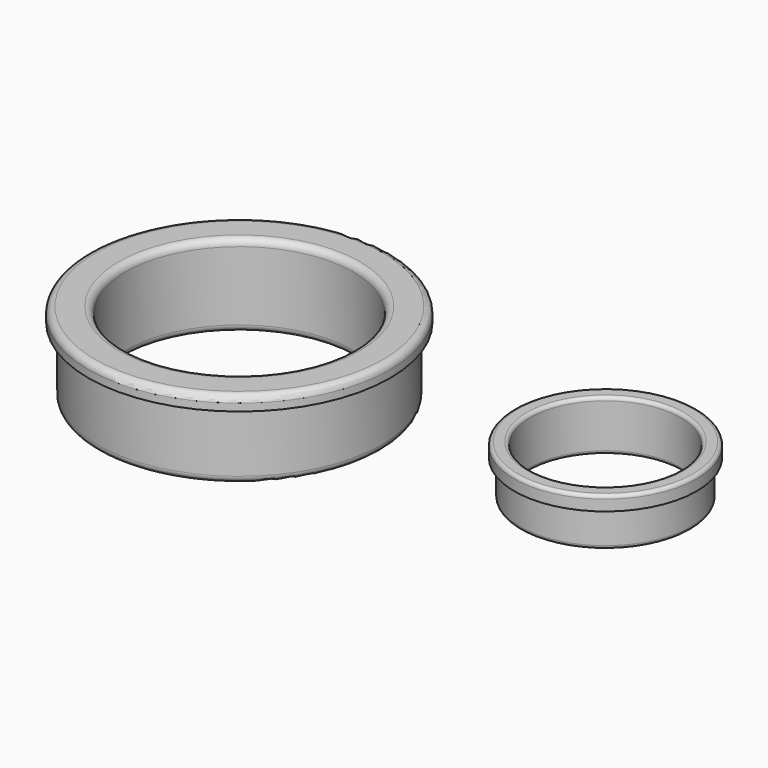
from build123d import *

# Parameters (mm, degrees)
F0_R     = 33.655
F0_R_2   = 20.32
F1_DEPTH = 3.175
F2_R     = 31.75
F3_DEPTH = 15.24
F4_R     = 19.05
F5_DEPTH = 8.128
F6_R     = 25.4
F7_DEPTH = 25.4
F8_R     = 16.78305
F9_DEPTH = 25.4
F10_R    = 1.524
F11_R    = 0.762


with BuildPart() as f1:
    # F0 (on Top) → F1 (new body)
    with BuildSketch(Plane.XY):
        with Locations((-39.147109, 0)):
            Circle(F0_R)
        with Locations((42.529192, 0)):
            Circle(F0_R_2)
    extrude(amount=-F1_DEPTH)

    # F2 (on face) → F3 (join)
    with BuildSketch(Plane(origin=(0, 0, -3.175), x_dir=(1, 0, 0), z_dir=(0, 0, -1))):
        with Locations((-39.147109, 0)):
            Circle(F2_R)
    extrude(amount=F3_DEPTH)

    # F4 (on face) → F5 (join)
    with BuildSketch(Plane(origin=(0, 0, -3.175), x_dir=(1, 0, 0), z_dir=(0, 0, -1))):
        with Locations((42.529192, 0)):
            Circle(F4_R)
    extrude(amount=F5_DEPTH)

    # F6 (on face) → F7 (cut)
    with BuildSketch(Plane.XY):
        with Locations((-39.147109, 0)):
            Circle(F6_R)
    extrude(amount=-F7_DEPTH, mode=Mode.SUBTRACT)

    # F8 (on face) → F9 (cut)
    with BuildSketch(Plane.XY):
        with Locations((42.529192, 0)):
            Circle(F8_R)
    extrude(amount=-F9_DEPTH, mode=Mode.SUBTRACT)

    # F10
    f10_edges = [f1.edges().sort_by_distance(p)[0] for p in [
        (-64.547109, 0, 0),
        (-72.802109, 0, 0),
        (-64.547109, 0, -18.415),
        (-70.897109, 0, -18.415),
    ]]
    fillet(f10_edges, radius=F10_R)

    # F11
    f11_edges = [f1.edges().sort_by_distance(p)[0] for p in [
        (25.746142, 0, 0),
        (22.209192, 0, 0),
        (25.746142, 0, -11.303),
        (23.479192, 0, -11.303),
    ]]
    fillet(f11_edges, radius=F11_R)


solid = f1.part
